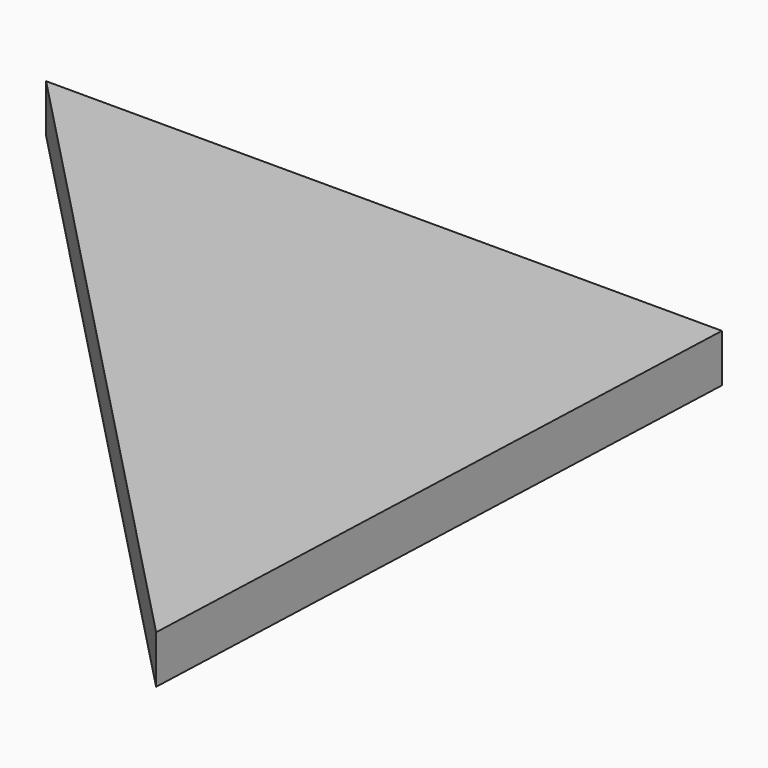
from build123d import *

# Parameters (mm, degrees)
F1_DEPTH = 1.4732


with BuildPart() as f1:
    # F0 (on Top) → F1 (new body)
    with BuildSketch(Plane.XY):
        Polygon((-45.656554, -20.303084), (-25.731654, -40.98806), (-24.917285, -20.303084), align=None)
    extrude(amount=-F1_DEPTH)


solid = f1.part
